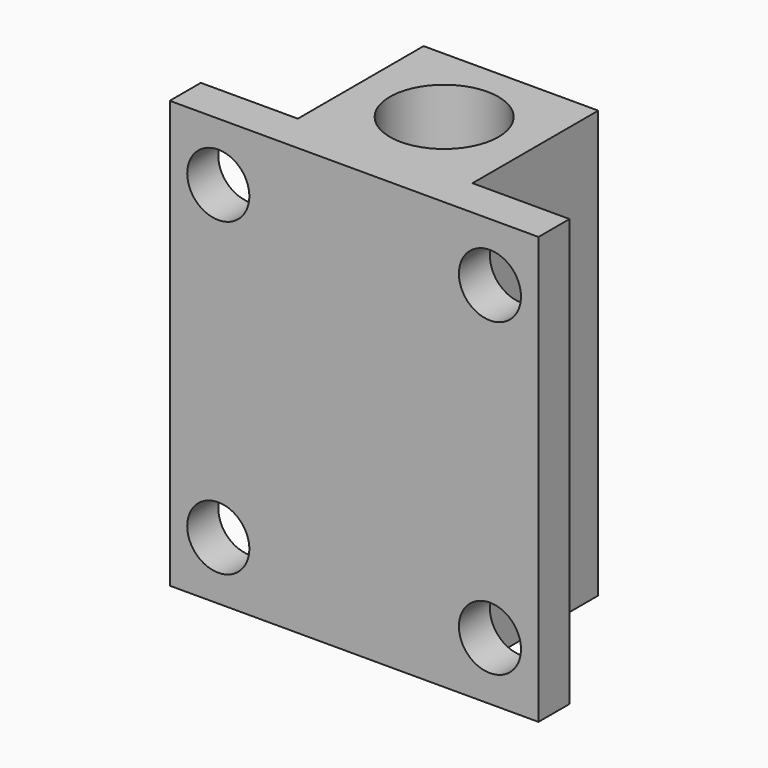
from build123d import *

# Parameters (mm, degrees)
F0_R     = 14
F1_DEPTH = 110
F2_R     = 8
F3_DEPTH = 25


with BuildPart() as f1:
    # F0 (on Top) → F1 (new body)
    with BuildSketch(Plane.XY):
        Polygon((-47.5, 10), (-47.5, 0), (47.5, 0), (47.5, 10), (22.5, 10), (22.5, 50.5), (-22.5, 50.5), (-22.5, 10), align=None)
        with Locations((0, 29)):
            Circle(F0_R, mode=Mode.SUBTRACT)
    extrude(amount=F1_DEPTH)

    # F2 (on face) → F3 (cut)
    with BuildSketch(Plane(origin=(0, 10, 0), x_dir=(-1, 0, 0), z_dir=(0, 1, 0))):
        with Locations((-35, 95)):
            Circle(F2_R)
        with Locations((-35, 15)):
            Circle(F2_R)
        with Locations((35, 95)):
            Circle(F2_R)
        with Locations((35, 15)):
            Circle(F2_R)
    extrude(amount=-F3_DEPTH, mode=Mode.SUBTRACT)


solid = f1.part
